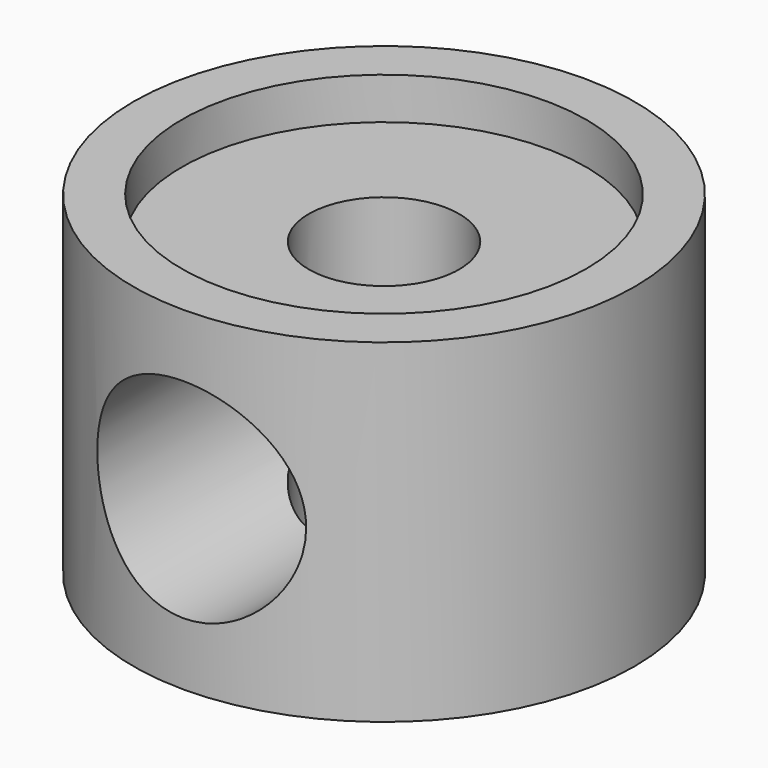
from build123d import *

# Parameters (mm, degrees)
F0_R     = 19.05
F1_DEPTH = 25.4
F3_D     = 11.43
F4_R     = 15.367
F5_DEPTH = 3.175
F7_R     = 7.9375
F8_DEPTH = 19.05


with BuildPart() as f1:
    # F0 (on Top) → F1 (new body)
    with BuildSketch(Plane.XY):
        Circle(F0_R)
    extrude(amount=F1_DEPTH)

    # F3 (through all)
    with Locations(Plane.XY.offset(25.4)):
        with Locations((0, 0)):
            Hole(F3_D / 2)

    # F4 (on face) → F5 (cut)
    with BuildSketch(Plane.XY.offset(25.4)):
        Circle(F4_R)
    extrude(amount=-F5_DEPTH, mode=Mode.SUBTRACT)

    # F7 (on offset) → F8 (cut)
    with BuildSketch(Plane.XZ.offset(19.05)):
        with Locations((0, 12.7)):
            Circle(F7_R)
    extrude(amount=-F8_DEPTH, mode=Mode.SUBTRACT)


solid = f1.part
